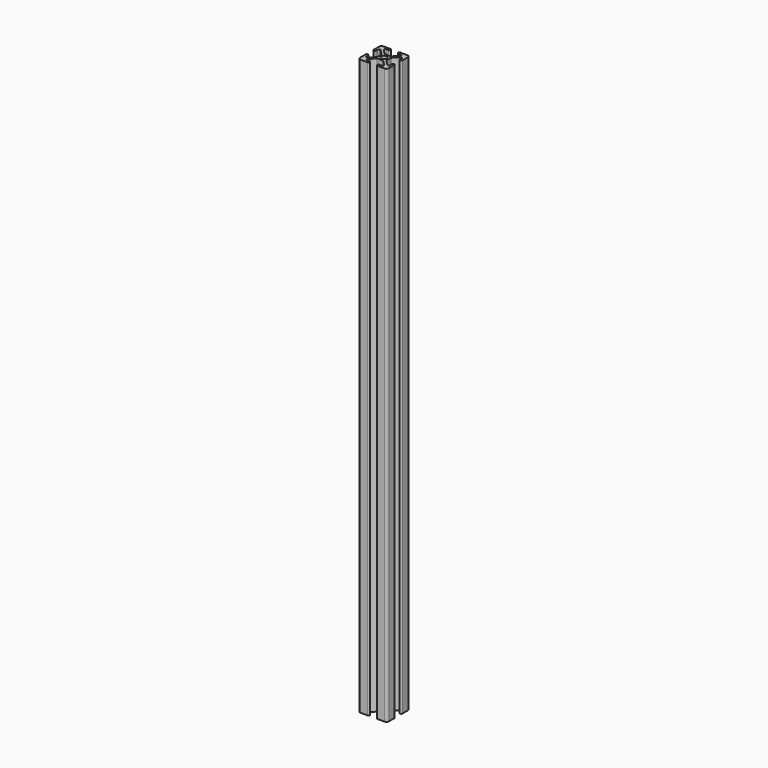
from build123d import *

# Parameters (mm, degrees)
F0_R     = 2.5
F1_DEPTH = 500


with BuildPart() as f1:
    # F0 (on Top) → F1 (new body)
    with BuildSketch(Plane.XY):
        with BuildLine():
            ThreePointArc((-10.36, 12.5), (-11.873209, 11.873209), (-12.5, 10.36))
            Line((-12.5, 10.36), (-12.5, 4.32))
            ThreePointArc((-12.5, 4.32), (-11.43, 3.25), (-10.36, 4.32))
            Line((-10.36, 4.32), (-10.36, 6.263583))
            ThreePointArc((-10.36, 6.263583), (-9.699471, 7.252134), (-8.533396, 7.020187))
            Line((-8.533396, 7.020187), (-4.363396, 2.850187))
            ThreePointArc((-4.363396, 2.850187), (-4.131449, 2.503054), (-4.05, 2.093583))
            Line((-4.05, 2.093583), (-4.05, 0))
            Line((-4.05, 0), (-4.05, -2.093583))
            ThreePointArc((-4.05, -2.093583), (-4.131449, -2.503054), (-4.363396, -2.850187))
            Line((-4.363396, -2.850187), (-8.533396, -7.020187))
            ThreePointArc((-8.533396, -7.020187), (-9.699471, -7.252134), (-10.36, -6.263583))
            Line((-10.36, -6.263583), (-10.36, -4.32))
            ThreePointArc((-10.36, -4.32), (-11.43, -3.25), (-12.5, -4.32))
            Line((-12.5, -4.32), (-12.5, -10.36))
            ThreePointArc((-12.5, -10.36), (-11.873209, -11.873209), (-10.36, -12.5))
            Line((-10.36, -12.5), (-4.32, -12.5))
            ThreePointArc((-4.32, -12.5), (-3.25, -11.43), (-4.32, -10.36))
            Line((-4.32, -10.36), (-6.263583, -10.36))
            ThreePointArc((-6.263583, -10.36), (-7.252134, -9.699471), (-7.020187, -8.533396))
            Line((-7.020187, -8.533396), (-2.850187, -4.363396))
            ThreePointArc((-2.850187, -4.363396), (-2.503054, -4.131449), (-2.093583, -4.05))
            Line((-2.093583, -4.05), (0, -4.05))
            Line((0, -4.05), (2.093583, -4.05))
            ThreePointArc((2.093583, -4.05), (2.503054, -4.131449), (2.850187, -4.363396))
            Line((2.850187, -4.363396), (7.020187, -8.533396))
            ThreePointArc((7.020187, -8.533396), (7.252134, -9.699471), (6.263583, -10.36))
            Line((6.263583, -10.36), (4.32, -10.36))
            ThreePointArc((4.32, -10.36), (3.25, -11.43), (4.32, -12.5))
            Line((4.32, -12.5), (10.36, -12.5))
            ThreePointArc((10.36, -12.5), (11.873209, -11.873209), (12.5, -10.36))
            Line((12.5, -10.36), (12.5, -4.32))
            ThreePointArc((12.5, -4.32), (11.43, -3.25), (10.36, -4.32))
            Line((10.36, -4.32), (10.36, -6.263583))
            ThreePointArc((10.36, -6.263583), (9.699471, -7.252134), (8.533396, -7.020187))
            Line((8.533396, -7.020187), (4.363396, -2.850187))
            ThreePointArc((4.363396, -2.850187), (4.131449, -2.503054), (4.05, -2.093583))
            Line((4.05, -2.093583), (4.05, 0))
            Line((4.05, 0), (4.05, 2.093583))
            ThreePointArc((4.05, 2.093583), (4.131449, 2.503054), (4.363396, 2.850187))
            Line((4.363396, 2.850187), (8.533396, 7.020187))
            ThreePointArc((8.533396, 7.020187), (9.699471, 7.252134), (10.36, 6.263583))
            Line((10.36, 6.263583), (10.36, 4.32))
            ThreePointArc((10.36, 4.32), (11.43, 3.25), (12.5, 4.32))
            Line((12.5, 4.32), (12.5, 10.36))
            ThreePointArc((12.5, 10.36), (11.873209, 11.873209), (10.36, 12.5))
            Line((10.36, 12.5), (4.32, 12.5))
            ThreePointArc((4.32, 12.5), (3.25, 11.43), (4.32, 10.36))
            Line((4.32, 10.36), (6.263583, 10.36))
            ThreePointArc((6.263583, 10.36), (7.252134, 9.699471), (7.020187, 8.533396))
            Line((7.020187, 8.533396), (2.850187, 4.363396))
            ThreePointArc((2.850187, 4.363396), (2.503054, 4.131449), (2.093583, 4.05))
            Line((2.093583, 4.05), (0, 4.05))
            Line((0, 4.05), (-2.093583, 4.05))
            ThreePointArc((-2.093583, 4.05), (-2.503054, 4.131449), (-2.850187, 4.363396))
            Line((-2.850187, 4.363396), (-7.020187, 8.533396))
            ThreePointArc((-7.020187, 8.533396), (-7.252134, 9.699471), (-6.263583, 10.36))
            Line((-6.263583, 10.36), (-4.32, 10.36))
            ThreePointArc((-4.32, 10.36), (-3.25, 11.43), (-4.32, 12.5))
            Line((-4.32, 12.5), (-10.36, 12.5))
        make_face()
        Circle(F0_R, mode=Mode.SUBTRACT)
    extrude(amount=F1_DEPTH)


solid = f1.part
